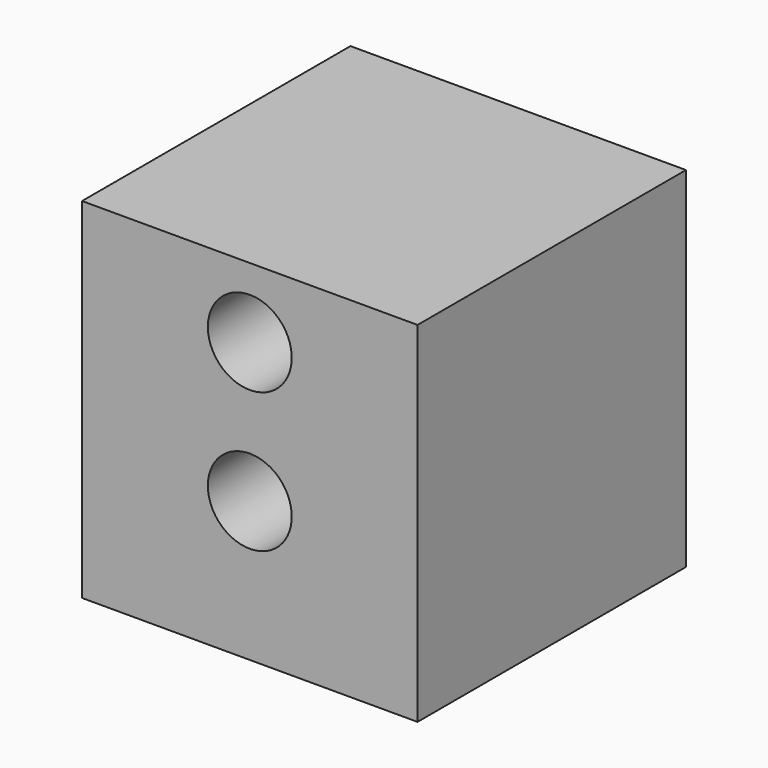
from build123d import *

# Parameters (mm, degrees)
F0_W     = 24
F0_H     = 24
F1_DEPTH = 25
F3_D     = 6


with BuildPart() as f1:
    # F0 (on Top) → F1 (new body)
    with BuildSketch(Plane.XY):
        with Locations((12, -12)):
            Rectangle(F0_W, F0_H)
    extrude(amount=F1_DEPTH)

    # F3 (through all)
    with Locations(Plane.XZ.offset(24)):
        with Locations((12, 20), (12, 10)):
            Hole(F3_D / 2)


solid = f1.part
